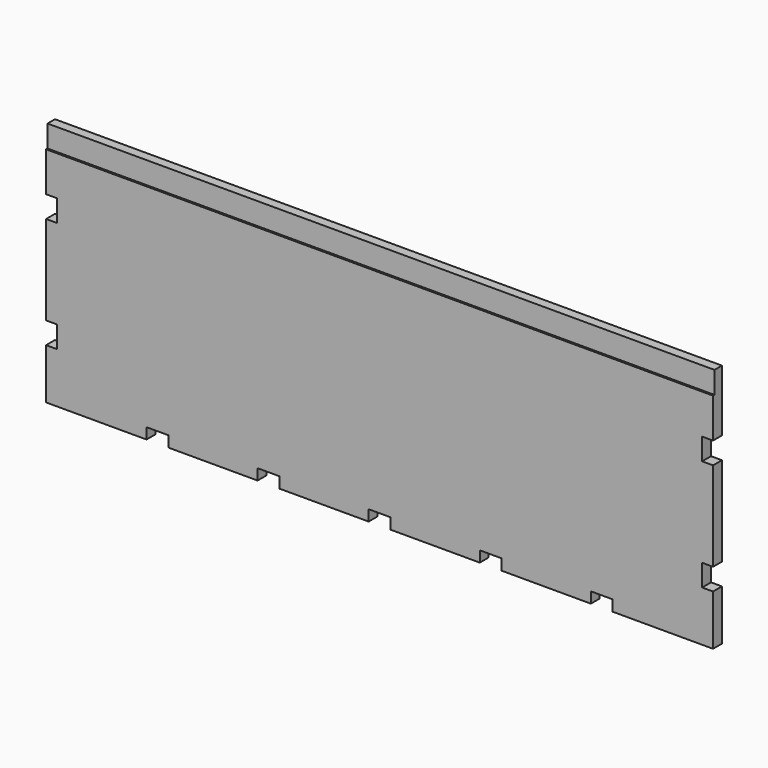
from build123d import *

# Parameters (mm, degrees)
F0_W     = 300.2
F0_H     = 110.2
F1_DEPTH = 5
F2_W     = 300.2
F2_H     = 9.9
F3_DEPTH = 0.8
F4_W     = 4.9
F4_H     = 9.8
F4_W_2   = 9.8
F4_H_2   = 4.9
F5_DEPTH = 5


with BuildPart() as f1:
    # F0 (on Front) → F1 (new body)
    with BuildSketch(Plane.XZ):
        Rectangle(F0_W, F0_H)
    extrude(amount=F1_DEPTH)

    # F2 (on face) → F3 (cut)
    with BuildSketch(Plane.XZ.offset(5)):
        with Locations((0, 50.15)):
            Rectangle(F2_W, F2_H)
    extrude(amount=-F3_DEPTH, mode=Mode.SUBTRACT)

    # F4 (on face) → F5 (cut, through all)
    with BuildSketch(Plane.XZ.offset(5)):
        with Locations((-147.65, 22.5)):
            Rectangle(F4_W, F4_H)
        with Locations((-147.65, -27.5)):
            Rectangle(F4_W, F4_H)
        with Locations((-100, -52.65)):
            Rectangle(F4_W_2, F4_H_2)
        with Locations((-50, -52.65)):
            Rectangle(F4_W_2, F4_H_2)
        with Locations((0, -52.65)):
            Rectangle(F4_W_2, F4_H_2)
        with Locations((50, -52.65)):
            Rectangle(F4_W_2, F4_H_2)
        with Locations((147.65, 22.5)):
            Rectangle(F4_W, F4_H)
        with Locations((147.65, -27.5)):
            Rectangle(F4_W, F4_H)
        with Locations((100, -52.65)):
            Rectangle(F4_W_2, F4_H_2)
    extrude(amount=-F5_DEPTH, mode=Mode.SUBTRACT)


solid = f1.part
